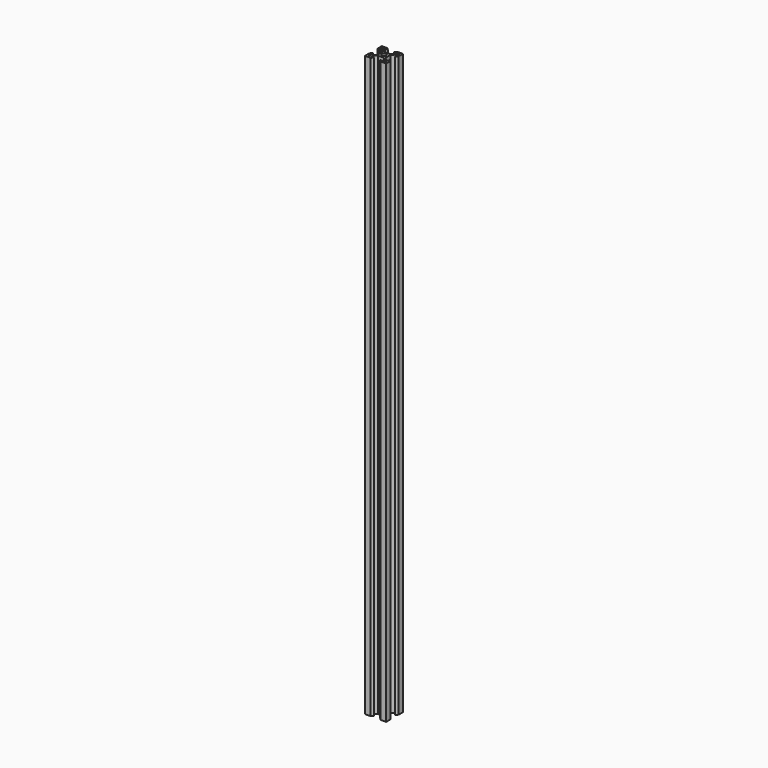
from build123d import *

# Parameters (mm, degrees)
F1_DEPTH = 550
F2_R     = 2.1
F3_DEPTH = 550.001


with BuildPart() as f1:
    # F0 (on Top) → F1 (new body)
    with BuildSketch(Plane.XY):
        Polygon((0, 5.2), (0, 0), (5.2, 0), (7, 1.8), (4.4, 1.8), (4.4, 3.44), (7.16, 6.2), (12.84, 6.2), (15.6, 3.44), (15.6, 1.8), (13, 1.8), (14.8, 0), (20, 0), (20, 5.2), (18.2, 7), (18.2, 4.4), (16.56, 4.4), (13.8, 7.16), (13.8, 12.84), (16.56, 15.6), (18.2, 15.6), (18.2, 13), (20, 14.8), (20, 20), (14.8, 20), (13, 18.2), (15.6, 18.2), (15.6, 16.56), (12.84, 13.8), (7.16, 13.8), (4.4, 16.56), (4.4, 18.2), (7, 18.2), (5.2, 20), (0, 20), (0, 14.8), (1.8, 13), (1.8, 15.6), (3.44, 15.6), (6.2, 12.84), (6.2, 7.16), (3.44, 4.4), (1.8, 4.4), (1.8, 7), align=None)
    extrude(amount=F1_DEPTH)

    # F2 (on face) → F3 (cut, through all)
    with BuildSketch(Plane.XY.offset(550)):
        with Locations((10, 10)):
            Circle(F2_R)
        Polygon((18.2, 16.67), (18.2, 18.2), (16.67, 18.2), align=None)
        Polygon((3.33, 18.2), (1.8, 18.2), (1.8, 16.67), align=None)
        Polygon((1.8, 3.33), (1.8, 1.8), (3.33, 1.8), align=None)
        Polygon((16.67, 1.8), (18.2, 1.8), (18.2, 3.33), align=None)
    extrude(amount=-F3_DEPTH, mode=Mode.SUBTRACT)


solid = f1.part
